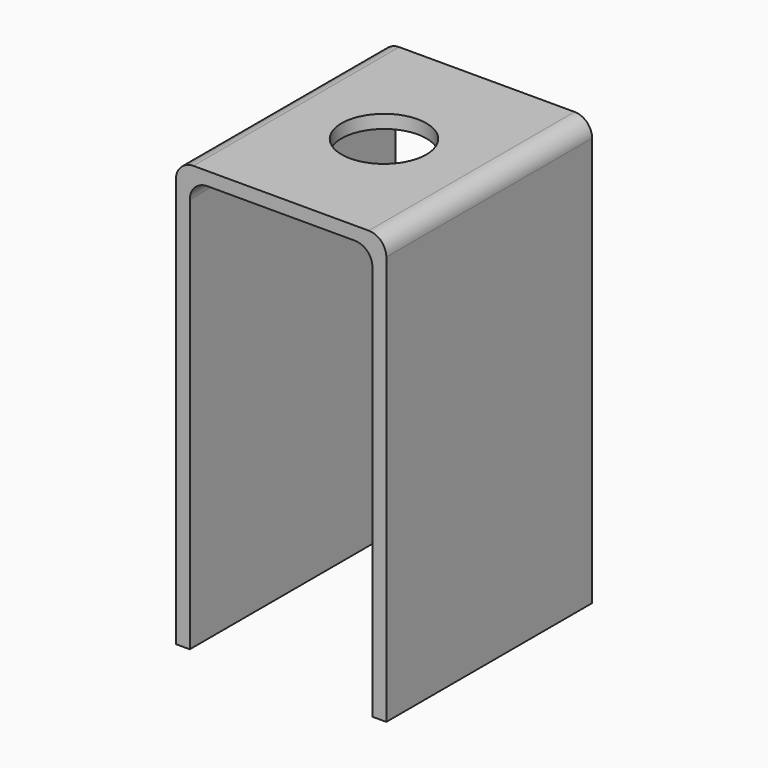
from build123d import *

# Parameters (mm, degrees)
F1_DEPTH = 44
F2_R     = 7.25
F3_DEPTH = 81.6


with BuildPart() as f1:
    # F0 (on Front) → F1 (new body)
    with BuildSketch(Plane.XZ):
        with BuildLine():
            ThreePointArc((-19.495001, 43.092395), (-18.616322, 45.213716), (-16.495001, 46.092395))
            Line((-16.495001, 46.092395), (8.744999, 46.092395))
            ThreePointArc((8.744999, 46.092395), (10.866319, 45.213716), (11.744999, 43.092395))
            Line((11.744999, 43.092395), (11.744999, -24.627605))
            Line((11.744999, -24.627605), (14.124999, -24.627605))
            Line((14.124999, -24.627605), (14.124999, 45.372395))
            ThreePointArc((14.124999, 45.372395), (13.246319, 47.493716), (11.124999, 48.372395))
            Line((11.124999, 48.372395), (-18.875001, 48.372395))
            ThreePointArc((-18.875001, 48.372395), (-20.996322, 47.493716), (-21.875001, 45.372395))
            Line((-21.875001, 45.372395), (-21.875001, -24.627605))
            Line((-21.875001, -24.627605), (-19.495001, -24.627605))
            Line((-19.495001, -24.627605), (-19.495001, 43.092395))
        make_face()
    extrude(amount=F1_DEPTH)

    # F2 (on Top) → F3 (cut, symmetric)
    with BuildSketch(Plane.XY):
        with Locations((-3.875001, -22)):
            Circle(F2_R)
    extrude(amount=F3_DEPTH, both=True, mode=Mode.SUBTRACT)


solid = f1.part
